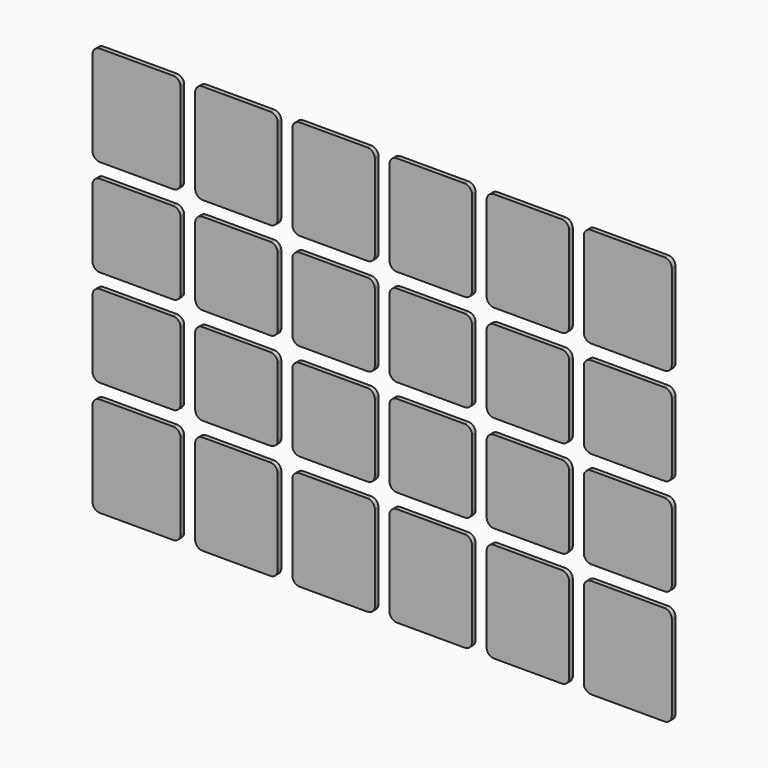
from build123d import *

# Parameters (mm, degrees)
F1_DEPTH = 0.5


with BuildPart() as f1:
    # F0 (on Front) → F1 (new body)
    with BuildSketch(Plane.XZ):
        with BuildLine():
            ThreePointArc((0, 0.8), (0.234315, 0.234315), (0.8, 0))
            Line((0.8, 0), (8.8, 0))
            ThreePointArc((8.8, 0), (9.365685, 0.234315), (9.6, 0.8))
            Line((9.6, 0.8), (9.6, 8.2))
            ThreePointArc((9.6, 8.2), (9.365685, 8.765685), (8.8, 9))
            Line((8.8, 9), (0.8, 9))
            ThreePointArc((0.8, 9), (0.234315, 8.765685), (0, 8.2))
            Line((0, 8.2), (0, 0.8))
        make_face()
        with BuildLine():
            ThreePointArc((11.2, 0.8), (11.434315, 0.234315), (12, 0))
            Line((12, 0), (19.4, 0))
            ThreePointArc((19.4, 0), (19.965685, 0.234315), (20.2, 0.8))
            Line((20.2, 0.8), (20.2, 8.2))
            ThreePointArc((20.2, 8.2), (19.965685, 8.765685), (19.4, 9))
            Line((19.4, 9), (12, 9))
            ThreePointArc((12, 9), (11.434315, 8.765685), (11.2, 8.2))
            Line((11.2, 8.2), (11.2, 0.8))
        make_face()
        with BuildLine():
            Line((30, 9), (22.6, 9))
            ThreePointArc((22.6, 9), (22.034315, 8.765685), (21.8, 8.2))
            Line((21.8, 8.2), (21.8, 0.8))
            ThreePointArc((21.8, 0.8), (22.034315, 0.234315), (22.6, 0))
            Line((22.6, 0), (30, 0))
            ThreePointArc((30, 0), (30.565685, 0.234315), (30.8, 0.8))
            Line((30.8, 0.8), (30.8, 8.2))
            ThreePointArc((30.8, 8.2), (30.565685, 8.765685), (30, 9))
        make_face()
        with BuildLine():
            Line((40.6, 9), (33.2, 9))
            ThreePointArc((33.2, 9), (32.634315, 8.765685), (32.4, 8.2))
            Line((32.4, 8.2), (32.4, 0.8))
            ThreePointArc((32.4, 0.8), (32.634315, 0.234315), (33.2, 0))
            Line((33.2, 0), (40.6, 0))
            ThreePointArc((40.6, 0), (41.165685, 0.234315), (41.4, 0.8))
            Line((41.4, 0.8), (41.4, 8.2))
            ThreePointArc((41.4, 8.2), (41.165685, 8.765685), (40.6, 9))
        make_face()
        with BuildLine():
            Line((51.2, 9), (43.8, 9))
            ThreePointArc((43.8, 9), (43.234315, 8.765685), (43, 8.2))
            Line((43, 8.2), (43, 0.8))
            ThreePointArc((43, 0.8), (43.234315, 0.234315), (43.8, 0))
            Line((43.8, 0), (51.2, 0))
            ThreePointArc((51.2, 0), (51.765685, 0.234315), (52, 0.8))
            Line((52, 0.8), (52, 8.2))
            ThreePointArc((52, 8.2), (51.765685, 8.765685), (51.2, 9))
        make_face()
        with BuildLine():
            ThreePointArc((53.6, 0.8), (53.834315, 0.234315), (54.4, 0))
            Line((54.4, 0), (62.4, 0))
            ThreePointArc((62.4, 0), (62.965685, 0.234315), (63.2, 0.8))
            Line((63.2, 0.8), (63.2, 8.2))
            ThreePointArc((63.2, 8.2), (62.965685, 8.765685), (62.4, 9))
            Line((62.4, 9), (54.4, 9))
            ThreePointArc((54.4, 9), (53.834315, 8.765685), (53.6, 8.2))
            Line((53.6, 8.2), (53.6, 0.8))
        make_face()
        with BuildLine():
            ThreePointArc((32.4, 11.4), (32.634315, 10.834315), (33.2, 10.6))
            Line((33.2, 10.6), (40.6, 10.6))
            ThreePointArc((40.6, 10.6), (41.165685, 10.834315), (41.4, 11.4))
            Line((41.4, 11.4), (41.4, 18.8))
            ThreePointArc((41.4, 18.8), (41.165685, 19.365685), (40.6, 19.6))
            Line((40.6, 19.6), (33.2, 19.6))
            ThreePointArc((33.2, 19.6), (32.634315, 19.365685), (32.4, 18.8))
            Line((32.4, 18.8), (32.4, 11.4))
        make_face()
        with BuildLine():
            ThreePointArc((19.4, 10.6), (19.965685, 10.834315), (20.2, 11.4))
            Line((20.2, 11.4), (20.2, 18.8))
            ThreePointArc((20.2, 18.8), (19.965685, 19.365685), (19.4, 19.6))
            Line((19.4, 19.6), (12, 19.6))
            ThreePointArc((12, 19.6), (11.434315, 19.365685), (11.2, 18.8))
            Line((11.2, 18.8), (11.2, 11.4))
            ThreePointArc((11.2, 11.4), (11.434315, 10.834315), (12, 10.6))
            Line((12, 10.6), (19.4, 10.6))
        make_face()
        with BuildLine():
            ThreePointArc((51.2, 10.6), (51.765685, 10.834315), (52, 11.4))
            Line((52, 11.4), (52, 18.8))
            ThreePointArc((52, 18.8), (51.765685, 19.365685), (51.2, 19.6))
            Line((51.2, 19.6), (43.8, 19.6))
            ThreePointArc((43.8, 19.6), (43.234315, 19.365685), (43, 18.8))
            Line((43, 18.8), (43, 11.4))
            ThreePointArc((43, 11.4), (43.234315, 10.834315), (43.8, 10.6))
            Line((43.8, 10.6), (51.2, 10.6))
        make_face()
        with BuildLine():
            ThreePointArc((0.8, 19.6), (0.234315, 19.365685), (0, 18.8))
            Line((0, 18.8), (0, 11.4))
            ThreePointArc((0, 11.4), (0.234315, 10.834315), (0.8, 10.6))
            Line((0.8, 10.6), (8.8, 10.6))
            ThreePointArc((8.8, 10.6), (9.365685, 10.834315), (9.6, 11.4))
            Line((9.6, 11.4), (9.6, 18.8))
            ThreePointArc((9.6, 18.8), (9.365685, 19.365685), (8.8, 19.6))
            Line((8.8, 19.6), (0.8, 19.6))
        make_face()
        with BuildLine():
            Line((53.6, 18.8), (53.6, 11.4))
            ThreePointArc((53.6, 11.4), (53.834315, 10.834315), (54.4, 10.6))
            Line((54.4, 10.6), (62.4, 10.6))
            ThreePointArc((62.4, 10.6), (62.965685, 10.834315), (63.2, 11.4))
            Line((63.2, 11.4), (63.2, 18.8))
            ThreePointArc((63.2, 18.8), (62.965685, 19.365685), (62.4, 19.6))
            Line((62.4, 19.6), (54.4, 19.6))
            ThreePointArc((54.4, 19.6), (53.834315, 19.365685), (53.6, 18.8))
        make_face()
        with BuildLine():
            ThreePointArc((22.6, 19.6), (22.034315, 19.365685), (21.8, 18.8))
            Line((21.8, 18.8), (21.8, 11.4))
            ThreePointArc((21.8, 11.4), (22.034315, 10.834315), (22.6, 10.6))
            Line((22.6, 10.6), (30, 10.6))
            ThreePointArc((30, 10.6), (30.565685, 10.834315), (30.8, 11.4))
            Line((30.8, 11.4), (30.8, 18.8))
            ThreePointArc((30.8, 18.8), (30.565685, 19.365685), (30, 19.6))
            Line((30, 19.6), (22.6, 19.6))
        make_face()
        with BuildLine():
            Line((0.8, 21.2), (8.8, 21.2))
            ThreePointArc((8.8, 21.2), (9.365685, 21.434315), (9.6, 22))
            Line((9.6, 22), (9.6, 31.3))
            ThreePointArc((9.6, 31.3), (9.365685, 31.865685), (8.8, 32.1))
            Line((8.8, 32.1), (0.8, 32.1))
            ThreePointArc((0.8, 32.1), (0.234315, 31.865685), (0, 31.3))
            Line((0, 31.3), (0, 22))
            ThreePointArc((0, 22), (0.234315, 21.434315), (0.8, 21.2))
        make_face()
        with BuildLine():
            ThreePointArc((11.2, 22), (11.434315, 21.434315), (12, 21.2))
            Line((12, 21.2), (19.4, 21.2))
            ThreePointArc((19.4, 21.2), (19.965685, 21.434315), (20.2, 22))
            Line((20.2, 22), (20.2, 31.3))
            ThreePointArc((20.2, 31.3), (19.965685, 31.865685), (19.4, 32.1))
            Line((19.4, 32.1), (12, 32.1))
            ThreePointArc((12, 32.1), (11.434315, 31.865685), (11.2, 31.3))
            Line((11.2, 31.3), (11.2, 22))
        make_face()
        with BuildLine():
            Line((21.8, 31.3), (21.8, 22))
            ThreePointArc((21.8, 22), (22.034315, 21.434315), (22.6, 21.2))
            Line((22.6, 21.2), (30, 21.2))
            ThreePointArc((30, 21.2), (30.565685, 21.434315), (30.8, 22))
            Line((30.8, 22), (30.8, 31.3))
            ThreePointArc((30.8, 31.3), (30.565685, 31.865685), (30, 32.1))
            Line((30, 32.1), (22.6, 32.1))
            ThreePointArc((22.6, 32.1), (22.034315, 31.865685), (21.8, 31.3))
        make_face()
        with BuildLine():
            Line((32.4, 31.3), (32.4, 22))
            ThreePointArc((32.4, 22), (32.634315, 21.434315), (33.2, 21.2))
            Line((33.2, 21.2), (40.6, 21.2))
            ThreePointArc((40.6, 21.2), (41.165685, 21.434315), (41.4, 22))
            Line((41.4, 22), (41.4, 31.3))
            ThreePointArc((41.4, 31.3), (41.165685, 31.865685), (40.6, 32.1))
            Line((40.6, 32.1), (33.2, 32.1))
            ThreePointArc((33.2, 32.1), (32.634315, 31.865685), (32.4, 31.3))
        make_face()
        with BuildLine():
            Line((43, 31.3), (43, 22))
            ThreePointArc((43, 22), (43.234315, 21.434315), (43.8, 21.2))
            Line((43.8, 21.2), (51.2, 21.2))
            ThreePointArc((51.2, 21.2), (51.765685, 21.434315), (52, 22))
            Line((52, 22), (52, 31.3))
            ThreePointArc((52, 31.3), (51.765685, 31.865685), (51.2, 32.1))
            Line((51.2, 32.1), (43.8, 32.1))
            ThreePointArc((43.8, 32.1), (43.234315, 31.865685), (43, 31.3))
        make_face()
        with BuildLine():
            ThreePointArc((63.2, 31.3), (62.965685, 31.865685), (62.4, 32.1))
            Line((62.4, 32.1), (54.4, 32.1))
            ThreePointArc((54.4, 32.1), (53.834315, 31.865685), (53.6, 31.3))
            Line((53.6, 31.3), (53.6, 22))
            ThreePointArc((53.6, 22), (53.834315, 21.434315), (54.4, 21.2))
            Line((54.4, 21.2), (62.4, 21.2))
            ThreePointArc((62.4, 21.2), (62.965685, 21.434315), (63.2, 22))
            Line((63.2, 22), (63.2, 31.3))
        make_face()
        with BuildLine():
            ThreePointArc((21.8, -11.7), (22.034315, -12.265685), (22.6, -12.5))
            Line((22.6, -12.5), (30, -12.5))
            ThreePointArc((30, -12.5), (30.565685, -12.265685), (30.8, -11.7))
            Line((30.8, -11.7), (30.8, -2.4))
            ThreePointArc((30.8, -2.4), (30.565685, -1.834315), (30, -1.6))
            Line((30, -1.6), (22.6, -1.6))
            ThreePointArc((22.6, -1.6), (22.034315, -1.834315), (21.8, -2.4))
            Line((21.8, -2.4), (21.8, -11.7))
        make_face()
        with BuildLine():
            ThreePointArc((20.2, -2.4), (19.965685, -1.834315), (19.4, -1.6))
            Line((19.4, -1.6), (12, -1.6))
            ThreePointArc((12, -1.6), (11.434315, -1.834315), (11.2, -2.4))
            Line((11.2, -2.4), (11.2, -11.7))
            ThreePointArc((11.2, -11.7), (11.434315, -12.265685), (12, -12.5))
            Line((12, -12.5), (19.4, -12.5))
            ThreePointArc((19.4, -12.5), (19.965685, -12.265685), (20.2, -11.7))
            Line((20.2, -11.7), (20.2, -2.4))
        make_face()
        with BuildLine():
            ThreePointArc((0.8, -1.6), (0.234315, -1.834315), (0, -2.4))
            Line((0, -2.4), (0, -11.7))
            ThreePointArc((0, -11.7), (0.234315, -12.265685), (0.8, -12.5))
            Line((0.8, -12.5), (8.8, -12.5))
            ThreePointArc((8.8, -12.5), (9.365685, -12.265685), (9.6, -11.7))
            Line((9.6, -11.7), (9.6, -2.4))
            ThreePointArc((9.6, -2.4), (9.365685, -1.834315), (8.8, -1.6))
            Line((8.8, -1.6), (0.8, -1.6))
        make_face()
        with BuildLine():
            ThreePointArc((43, -11.7), (43.234315, -12.265685), (43.8, -12.5))
            Line((43.8, -12.5), (51.2, -12.5))
            ThreePointArc((51.2, -12.5), (51.765685, -12.265685), (52, -11.7))
            Line((52, -11.7), (52, -2.4))
            ThreePointArc((52, -2.4), (51.765685, -1.834315), (51.2, -1.6))
            Line((51.2, -1.6), (43.8, -1.6))
            ThreePointArc((43.8, -1.6), (43.234315, -1.834315), (43, -2.4))
            Line((43, -2.4), (43, -11.7))
        make_face()
        with BuildLine():
            Line((62.4, -1.6), (54.4, -1.6))
            ThreePointArc((54.4, -1.6), (53.834315, -1.834315), (53.6, -2.4))
            Line((53.6, -2.4), (53.6, -11.7))
            ThreePointArc((53.6, -11.7), (53.834315, -12.265685), (54.4, -12.5))
            Line((54.4, -12.5), (62.4, -12.5))
            ThreePointArc((62.4, -12.5), (62.965685, -12.265685), (63.2, -11.7))
            Line((63.2, -11.7), (63.2, -2.4))
            ThreePointArc((63.2, -2.4), (62.965685, -1.834315), (62.4, -1.6))
        make_face()
        with BuildLine():
            ThreePointArc((40.6, -12.5), (41.165685, -12.265685), (41.4, -11.7))
            Line((41.4, -11.7), (41.4, -2.4))
            ThreePointArc((41.4, -2.4), (41.165685, -1.834315), (40.6, -1.6))
            Line((40.6, -1.6), (33.2, -1.6))
            ThreePointArc((33.2, -1.6), (32.634315, -1.834315), (32.4, -2.4))
            Line((32.4, -2.4), (32.4, -11.7))
            ThreePointArc((32.4, -11.7), (32.634315, -12.265685), (33.2, -12.5))
            Line((33.2, -12.5), (40.6, -12.5))
        make_face()
    extrude(amount=F1_DEPTH)


solid = f1.part
